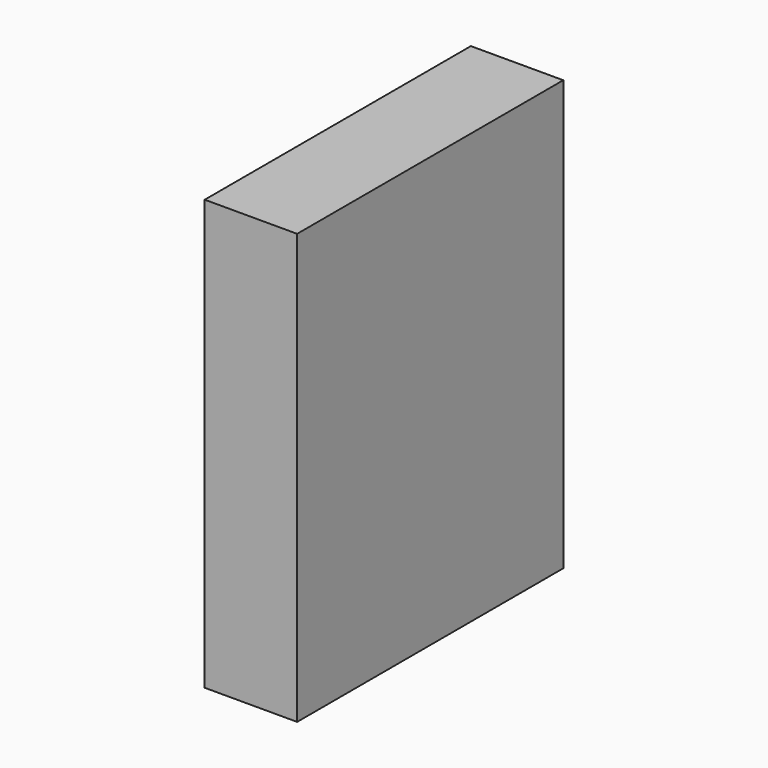
from build123d import *

# Parameters (mm, degrees)
F0_W     = 914.4
F0_H     = 1181.1
F1_DEPTH = 25.4
F2_W     = 914.4
F2_H     = 1181.1
F2_W_2   = 863.6
F2_H_2   = 25.4
F3_DEPTH = 228.6


with BuildPart() as f1:
    # F0 (on Right) → F1 (new body)
    with BuildSketch(Plane.YZ):
        Rectangle(F0_W, F0_H)
    extrude(amount=F1_DEPTH)

    # F2 (on face) → F3 (join)
    with BuildSketch(Plane(origin=(0, 0, 0), x_dir=(0, -1, 0), z_dir=(-1, 0, 0))):
        Rectangle(F2_W, F2_H)
        Polygon((-431.8, 565.15), (431.8, 565.15), (431.8, 301.625), (431.8, 276.225), (431.8, 12.7), (431.8, -12.7), (431.8, -276.225), (431.8, -301.625), (431.8, -565.15), (-431.8, -565.15), (-431.8, -301.625), (-431.8, -276.225), (-431.8, -12.7), (-431.8, 12.7), (-431.8, 276.225), (-431.8, 301.625), align=None, mode=Mode.SUBTRACT)
        with Locations((0, 288.925)):
            Rectangle(F2_W_2, F2_H_2)
        Rectangle(F2_W_2, F2_H_2)
        with Locations((0, -288.925)):
            Rectangle(F2_W_2, F2_H_2)
    extrude(amount=F3_DEPTH)


solid = f1.part
